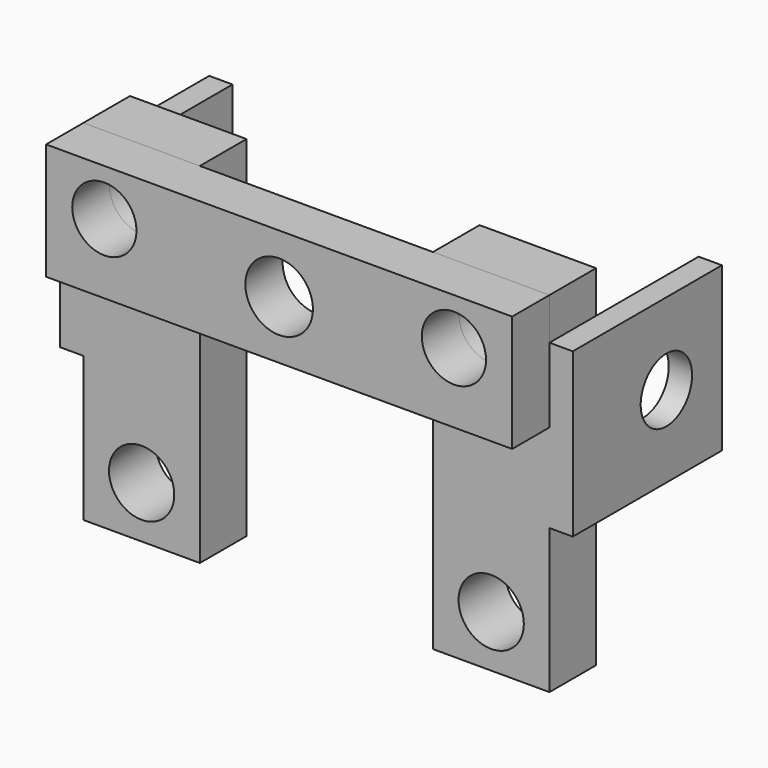
from build123d import *

# Parameters (mm, degrees)
F0_W     = 12.7
F0_H     = 38.1
F0_R     = 3.556
F0_R_2   = 3.499993
F1_DEPTH = 6.35
F2_W     = 35.56
F2_H     = 12.7
F2_R     = 3.683
F2_R_2   = 3.499993
F3_DEPTH = 5.08
F6_W     = 20.32
F6_H     = 17.78
F6_R     = 3.499993
F7_DEPTH = 2.54


with BuildPart() as f1:
    # F0 (on Front) → F1 (new body)
    with BuildSketch(Plane.XZ):
        with Locations((19.05, 19.05)):
            Rectangle(F0_W, F0_H)
        with Locations((19.0500002354, 5.6328698993)):
            Circle(F0_R, mode=Mode.SUBTRACT)
        with Locations((19.0499993676, 33.0148091292)):
            Circle(F0_R_2, mode=Mode.SUBTRACT)
    extrude(amount=F1_DEPTH)


with BuildPart() as f3:
    # F2 (on face) → F3 (new body)
    with BuildSketch(Plane.XZ.offset(6.35)):
        with Locations((7.62, 31.75)):
            Rectangle(F2_W, F2_H)
        with Locations((0, 31.75)):
            Circle(F2_R, mode=Mode.SUBTRACT)
        with Locations((19.0499993676, 33.0148091292)):
            Circle(F2_R_2, mode=Mode.SUBTRACT)
    extrude(amount=F3_DEPTH)

    # F4: F3 across plane


with BuildPart() as f3_1:
    add(f3.part)
    add(f3.part.mirror(Plane.YZ))


with BuildPart() as f5_1:
    # F5: instance of F1
    add(f1.part.mirror(Plane.YZ))


with BuildPart() as f1_1:
    add(f1.part)

    # F6 (on face) → F7 (join)
    with BuildSketch(Plane.YZ.offset(25.4)):
        with Locations((3.8100000767, 24.6379904592)):
            Rectangle(F6_W, F6_H)
        with Locations((6.4022434711, 24.6379904592)):
            Circle(F6_R, mode=Mode.SUBTRACT)
    extrude(amount=F7_DEPTH)


with BuildPart() as f8_1:
    # F8: instance of F1
    add(f1_1.part.mirror(Plane.YZ))


solid = Compound([f3_1.part, f1_1.part, f8_1.part])
